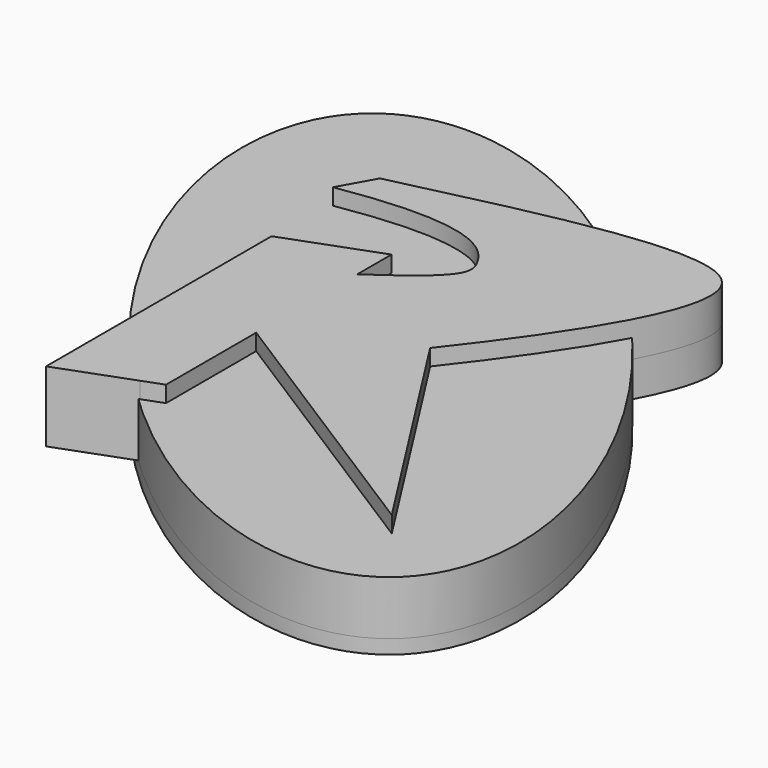
from build123d import *

# Parameters (mm, degrees)
F1_DEPTH      = 6.35
F2_W          = 12.5267811433
F2_H          = 6.6940990378
F3_DEPTH      = 25.4
F5_D          = 5.08
F5_DEPTH      = 10.16
F5_TIP        = 1.5261859723
F7_DEPTH      = 9.7674950429
F7_DEPTH_BACK = 2.54


with BuildPart() as f1:
    # F0 (on Top) → F1 (new body, symmetric)
    with BuildSketch(Plane.XY):
        with BuildLine():
            Line((-17.9168890682, 35.2803353885), (-17.9168890682, 43.0067811433))
            Line((-17.9168890682, 43.0067811433), (-34.5878013041, 36.8254313535))
            Line((-34.5878013041, 36.8254313535), (-34.5878013041, -13.9745686465))
            Line((-34.5878013041, -13.9745686465), (-21.5474975695, -9.1393996042))
            add(Edge.make_bspline(
                [(-21.5474975695, -9.1393996042), (-19.7330818497, -8.0838074711), (-17.9168890682, -6.9857855037)],
                knots=[4.4107278118, 4.4107278118, 4.4107278118, 4.4549683804, 4.4549683804, 4.4549683804], degree=2, weights=[1, 0.9997553565, 1]))
            Line((-17.9168890682, -6.9857855037), (-17.9168890682, 12.5267811433))
            Line((-17.9168890682, 12.5267811433), (31.7171104252, -18.9665146172))
            Line((31.7171104252, -18.9665146172), (4.1242704695, 24.1718371372))
            add(Edge.make_bspline(
                [(-33.6808897555, 60.1210296154), (-6.55317698, 66.6049300525), (40.0529664799, 77.7334993164), (18.5844638903, 42.6213974887), (4.1242704695, 24.1718371372)],
                knots=[0, 0, 0, 0, 0.5290310849, 1, 1, 1, 1], degree=3))
            Line((-33.6808897555, 60.1210296154), (-37.1644832194, 53.8872331381))
            add(Edge.make_bspline(
                [(-37.1644832194, 53.8872331381), (-14.27413428, 57.6727865008), (-5.3619340702, 48.7426815259), (-5.4736165924, 43.7328712908), (-17.9168890682, 35.2803353885)],
                knots=[0, 0, 0, 0, 0.5704953204, 1, 1, 1, 1], degree=3))
        make_face()
        with BuildLine():
            add(Edge.make_bspline(
                [(-21.5474975695, -9.1393996042), (-19.7330818497, -8.0838074711), (-17.9168890682, -6.9857855037)],
                knots=[4.4107278118, 4.4107278118, 4.4107278118, 4.4549683804, 4.4549683804, 4.4549683804], degree=2, weights=[1, 0.9997553565, 1]))
            Line((-21.5474975695, -9.1393996042), (-17.9168890682, -7.7932188567))
            Line((-17.9168890682, -7.7932188567), (-17.9168890682, -6.9857855037))
        make_face()
    extrude(amount=F1_DEPTH, both=True)

    # F2 (on face) → F3 (join)
    with BuildSketch(Plane.YZ.offset(-17.9168890682)):
        with Locations((6.2633905717, 0.070445524)):
            Rectangle(F2_W, F2_H)
    extrude(amount=F3_DEPTH)

    # F5 (one way)
    with BuildSketch(Plane.XZ):
        with Locations((-15.4656967063, 0), (-2.7656967063, 0)):
            Circle(F5_D / 2)
    extrude(amount=-F5_DEPTH, mode=Mode.SUBTRACT)
    with Locations(Plane.XZ):
        with Locations((-15.4656967063, 0), (-2.7656967063, 0)):
            with Locations((0, 0, -(F5_DEPTH + F5_TIP / 2))):  # 118° drill point
                Cone(0, F5_D / 2, F5_TIP, mode=Mode.SUBTRACT)


with BuildPart() as f7:
    # F6 (on face) → F7 (new body, two sides)
    with BuildSketch(Plane(origin=(0, 0, -6.35), x_dir=(1, 0, 0), z_dir=(0, 0, -1))) as f7_sk:
        with BuildLine():
            add(Edge.make_bspline(
                [(40.0645434856, 29.3097589165), (-6.9447672217, 68.6953177433), (-51.5532011743, -32.2950101579), (-96.1616351269, -133.2853380591), (-4.543890467, -71.6805689847), (87.073854193, -10.0757999103), (40.0645434856, 29.3097589165)],
                knots=[0, 0, 0, 2.0943951024, 2.0943951024, 4.1887902048, 4.1887902048, 6.2831853072, 6.2831853072, 6.2831853072], degree=2, weights=[1, 0.5, 1, 0.5, 1, 0.5, 1]))
        make_face()
    extrude(amount=-F7_DEPTH)
    extrude(f7_sk.sketch, amount=F7_DEPTH_BACK)


solid = Compound([f1.part, f7.part])
